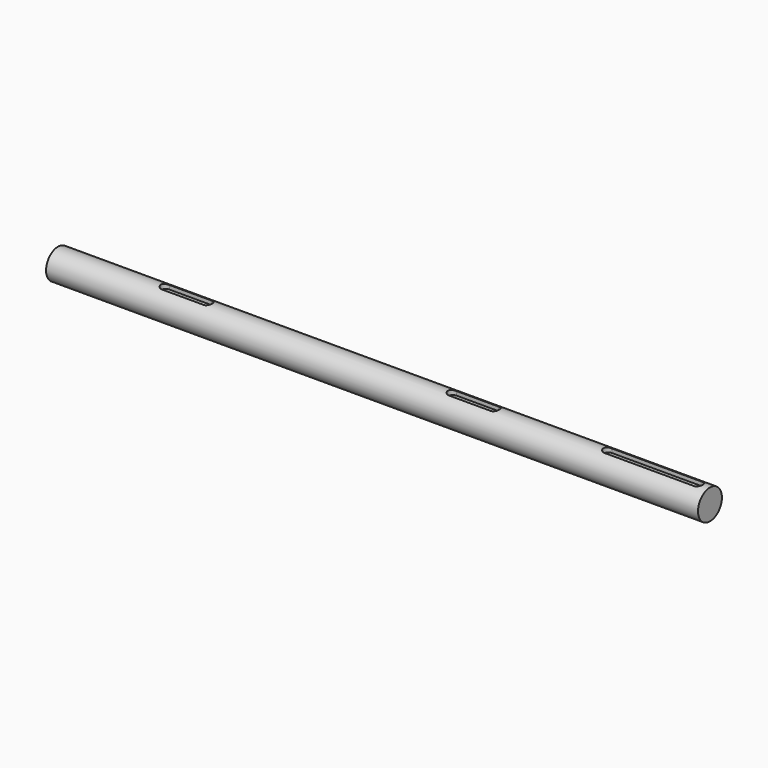
from build123d import *

# Parameters (mm, degrees)
F0_R     = 12.5
F2_DEPTH = 272.5
F4_DEPTH = 4


with BuildPart() as f2:
    # F0 (on Right) → F2 (new body, symmetric)
    with BuildSketch(Plane.YZ):
        Circle(F0_R)
    extrude(amount=F2_DEPTH, both=True)

    # F3 (on offset) → F4 (cut)
    with BuildSketch(Plane.XY.offset(12.5)):
        with BuildLine():
            ThreePointArc((-182.5, 4), (-186.5, 0), (-182.5, -4))
            Line((-182.5, -4), (-147.5, -4))
            ThreePointArc((-147.5, -4), (-143.5, 0), (-147.5, 4))
            Line((-147.5, 4), (-182.5, 4))
        make_face()
        with BuildLine():
            ThreePointArc((57.5, 4), (53.5, 0), (57.5, -4))
            Line((57.5, -4), (92.5, -4))
            ThreePointArc((92.5, -4), (96.5, 0), (92.5, 4))
            Line((92.5, 4), (57.5, 4))
        make_face()
        with BuildLine():
            ThreePointArc((187.5, 4), (183.5, 0), (187.5, -4))
            Line((187.5, -4), (262.5, -4))
            ThreePointArc((262.5, -4), (266.5, 0), (262.5, 4))
            Line((262.5, 4), (187.5, 4))
        make_face()
    extrude(amount=-F4_DEPTH, mode=Mode.SUBTRACT)


solid = f2.part
